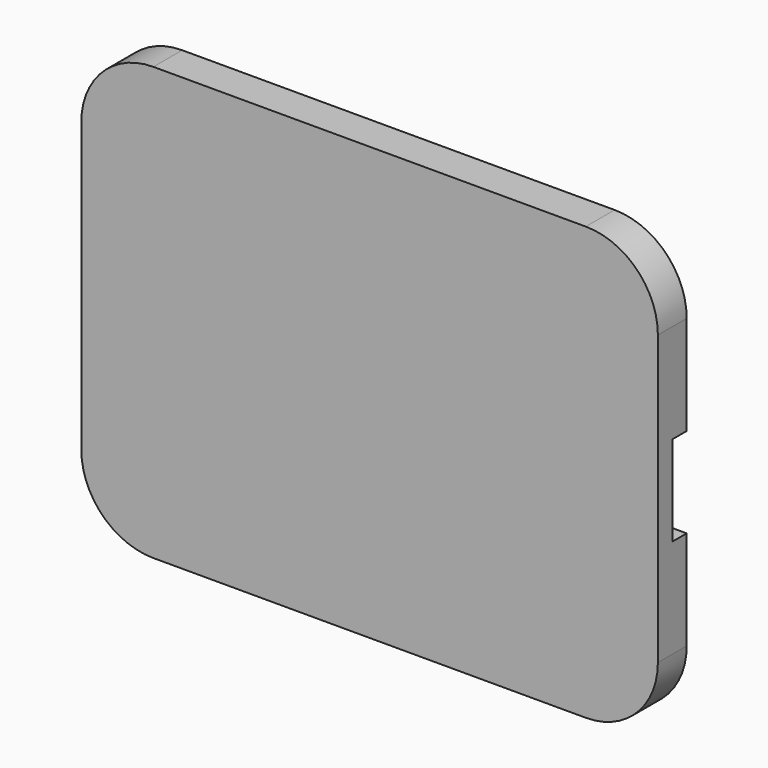
from build123d import *

# Parameters (mm, degrees)
F0_W     = 160
F0_H     = 120
F2_DEPTH = 10
F1_W     = 170
F1_H     = 25
F3_DEPTH = 5
F4_R     = 20


with BuildPart() as f2:
    # F0 (on Front) → F2 (new body)
    with BuildSketch(Plane.XZ):
        Rectangle(F0_W, F0_H)
    extrude(amount=F2_DEPTH)

    # F1 (on Front) → F3 (cut)
    with BuildSketch(Plane.XZ):
        Rectangle(F1_W, F1_H)
    extrude(amount=F3_DEPTH, mode=Mode.SUBTRACT)

    # F4
    f4_edges = [f2.edges().sort_by_distance(p)[0] for p in [
        (80, -5, -60),
        (80, -5, 60),
        (-80, -5, 60),
        (-80, -5, -60),
    ]]
    fillet(f4_edges, radius=F4_R)


solid = f2.part
